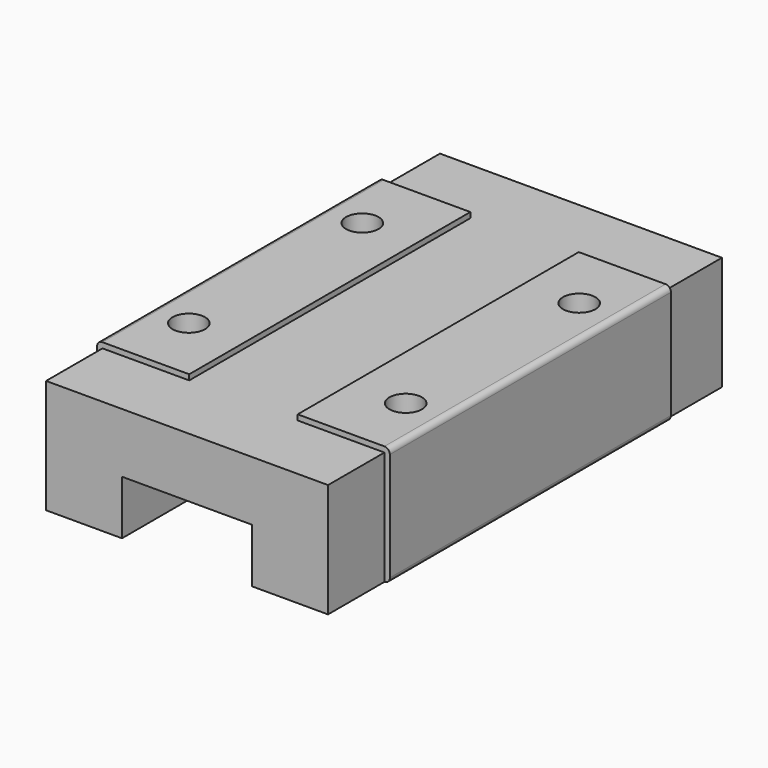
from build123d import *

# Parameters (mm, degrees)
PAD_DEPTH       = 45.4
SKETCH001_R     = 1.5
POCKET_DEPTH    = 3.5
SKETCH002_W     = 27
SKETCH002_H     = 6.5
POCKET001_DEPTH = 0.5
SKETCH003_W     = 10.5
SKETCH003_H     = 6.5
POCKET002_DEPTH = 0.5
SKETCH004_W     = 10
SKETCH004_H     = 32.4
POCKET003_DEPTH = 0.5


with BuildPart() as part:
    # Sketch → Pad (new body)
    with BuildSketch(Plane.XZ):
        with BuildLine():
            Line((-13, 0), (-6, 0))
            Line((-6, 0), (-6, 5))
            Line((-6, 5), (6, 5))
            Line((6, 5), (6, 0))
            Line((6, 0), (13, 0))
            ThreePointArc((13, 0), (13.353553, 0.146447), (13.5, 0.5))
            Line((13.5, 0.5), (13.5, 10.5))
            ThreePointArc((13.5, 10.5), (13.353553, 10.853553), (13, 11))
            Line((-13, 11), (13, 11))
            ThreePointArc((-13, 11), (-13.353553, 10.853553), (-13.5, 10.5))
            Line((-13.5, 0.5), (-13.5, 10.5))
            ThreePointArc((-13.5, 0.5), (-13.353553, 0.146447), (-13, 0))
        make_face()
    extrude(amount=PAD_DEPTH)

    # Sketch001 (on Face10 of Pad) → Pocket (cut)
    with BuildSketch(Plane(origin=(0, 0, 11), x_dir=(-1, 0, 0), z_dir=(0, 0, 1))):
        with Locations((-10, 12.7)):
            Circle(SKETCH001_R)
        with Locations((10, 12.7)):
            Circle(SKETCH001_R)
        with Locations((-10, 32.7)):
            Circle(SKETCH001_R)
        with Locations((10, 32.7)):
            Circle(SKETCH001_R)
    extrude(amount=-POCKET_DEPTH, mode=Mode.SUBTRACT)

    # Sketch002 (on Face14 of Pocket) → Pocket001 (cut)
    with BuildSketch(Plane(origin=(0, 0, 11), x_dir=(-1, 0, 0), z_dir=(0, 0, 1))):
        with Locations((0, 3.25)):
            Rectangle(SKETCH002_W, SKETCH002_H)
        with Locations((0, 42.15)):
            Rectangle(SKETCH002_W, SKETCH002_H)
    extrude(amount=-POCKET001_DEPTH, mode=Mode.SUBTRACT)

    # Sketch003 (on Face10 of Pocket001) → Pocket002 (cut)
    with BuildSketch(Plane(origin=(13.5, 0, 0), x_dir=(0, 0, 1), z_dir=(1, 0, 0))):
        with Locations((5.25, 42.15)):
            Rectangle(SKETCH003_W, SKETCH003_H)
        with Locations((5.25, 3.25)):
            Rectangle(SKETCH003_W, SKETCH003_H)
    pocket002 = extrude(amount=-POCKET002_DEPTH, mode=Mode.SUBTRACT)

    # Mirrored: Pocket002 across YZ
    add(pocket002.mirror(Plane.YZ), mode=Mode.SUBTRACT)

    # Sketch004 (on Face24 of Mirrored) → Pocket003 (cut)
    with BuildSketch(Plane(origin=(0, 0, 11), x_dir=(-1, 0, 0), z_dir=(0, 0, 1))):
        with Locations((0, 22.7)):
            Rectangle(SKETCH004_W, SKETCH004_H)
    extrude(amount=-POCKET003_DEPTH, mode=Mode.SUBTRACT)


solid = part.part
